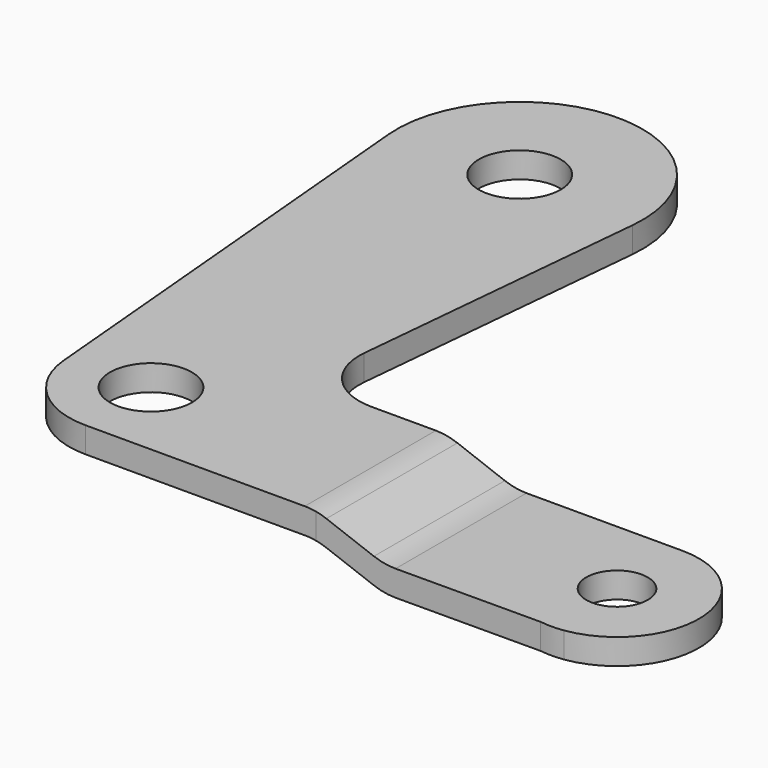
from build123d import *

# Parameters (mm, degrees)
F0_R      = 4
F1_DEPTH  = 2.5
F3_R      = 3
F4_DEPTH  = 2.5
F1_FACE_W = 16
F1_FACE_H = 2.5
F4_FACE_W = 15.976364256
F4_FACE_H = 2.5
F7_R      = 6
F8_R      = 6


with BuildPart() as f1:
    # F0 (on Top) → F1 (new body)
    with BuildSketch(Plane.XY):
        with BuildLine():
            Line((9.1568758371, 14.5686935942), (11.9459763261, 43.8626128117))
            ThreePointArc((11.9459763261, 43.8626128117), (0.0355103222, 56.9999474589), (-11.9524985765, 43.9333333333))
            Line((-11.9524985765, 43.9333333333), (-7.9683323844, -0.7111111111))
            ThreePointArc((-7.9683323844, -0.7111111111), (-5.3995884617, -5.902918299), (0, -8))
            Line((0, -8), (22.5, -8))
            Line((22.5, -8), (22.5, 8))
            Line((22.5, 8), (15.1298640001, 8))
            ThreePointArc((15.1298640001, 8), (10.6907108396, 9.9634272932), (9.1568758371, 14.5686935942))
        make_face()
        Circle(F0_R, mode=Mode.SUBTRACT)
        with Locations((0, 45)):
            Circle(F0_R, mode=Mode.SUBTRACT)
    extrude(amount=-F1_DEPTH)


with BuildPart() as f4:
    # F3 (on offset) → F4 (new body)
    with BuildSketch(Plane(origin=(0, 0, 0), x_dir=(1, 0, 0), z_dir=(0, 0, -1))):
        with BuildLine():
            Line((29.1677432093, -8), (45.5, -8))
            ThreePointArc((45.5, -8), (53.478553963, -0.5853859069), (46.6676332619, 7.914330835))
            Line((46.6676332619, 7.914330835), (44.3885046452, 7.9224098655))
            Line((44.3885046452, 7.9224098655), (29.1677432093, 7.976364256))
            Line((29.1677432093, 7.976364256), (29.1677432093, -8))
        make_face()
        with Locations((45.5, 0)):
            Circle(F3_R, mode=Mode.SUBTRACT)
        with BuildLine():
            Line((44.3885046452, 7.9224098655), (46.6676332619, 7.914330835))
            ThreePointArc((46.6676332619, 7.914330835), (45.5283581353, 7.9999497384), (44.3885046452, 7.9224098655))
        make_face()
    extrude(amount=-F4_DEPTH)


with BuildPart() as f5:
    # F1_face (on face) → F5 section 0
    with BuildSketch(Plane(origin=(22.5, 0, -1.25), x_dir=(0, 1, 0), z_dir=(1, 0, 0))):
        Rectangle(F1_FACE_W, F1_FACE_H)
    # F4_face (on face) → F5 section 1
    with BuildSketch(Plane(origin=(29.1677432093, 0.011817872, 1.25), x_dir=(0, -1, 0), z_dir=(-1, 0, 0))):
        Rectangle(F4_FACE_W, F4_FACE_H)
    loft()


with BuildPart() as f1_1:
    add(f1.part)

    # F6: union F4, F5
    add(f4.part)
    add(f5.part)

    # F7
    f7_edges = [f1_1.edges().sort_by_distance(p)[0] for p in [
        (22.5, 0, 0),
        (29.167743, 0.011818, 2.5),
    ]]
    fillet(f7_edges, radius=F7_R)

    # F8
    f8_edges = [f1_1.edges().sort_by_distance(p)[0] for p in [
        (29.167743, 0.011818, 0),
        (22.5, 0, -2.5),
    ]]
    fillet(f8_edges, radius=F8_R)


with BuildPart() as f9_1:
    # F9: instance of F1
    add(f1_1.part.mirror(Plane.XY))


solid = f9_1.part
